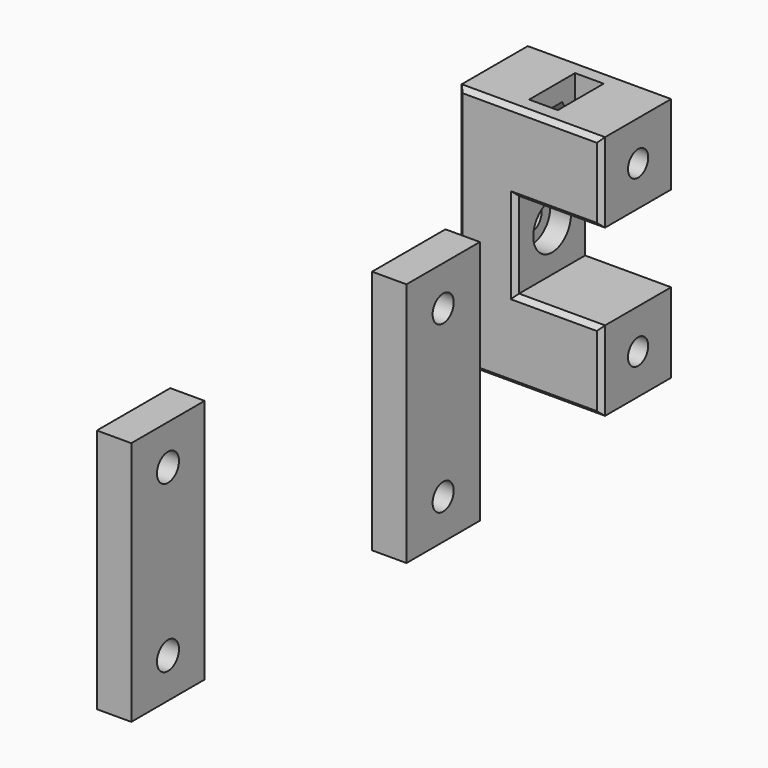
from build123d import *

# Parameters (mm, degrees)
F2_DEPTH  = 4
F4_START  = -3.7
F4_DEPTH  = 1.7
F5_W      = 2.5
F5_H      = 5
F6_DEPTH  = 5.45
F7_R      = 1.1
F8_DEPTH  = 12.501
F9_START  = -15.95
F9_DEPTH  = 5.45
F10_START = -7.1
F10_DEPTH = 1.7
F11_R     = 1.1
F13_DEPTH = 5
F12_R     = 2.05
F14_DEPTH = 1.8
F16_W     = 8
F16_H     = 21.4
F16_R     = 1.15
F17_DEPTH = 3
F20_R     = 1.2
F21_DEPTH = 15.501
F22_SIZE  = 0.4


with BuildPart() as f2:
    # F1 (on Front) → F2 (new body, symmetric)
    with BuildSketch(Plane.XZ):
        Polygon((-7.5, 3.75), (0, 3.75), (0, 10.7), (-12.5, 10.7), (-12.5, -10.7), (0, -10.7), (0, -3.75), (-7.5, -3.75), align=None)
    extrude(amount=F2_DEPTH, both=True)

    # F3 (on face) → F4 (cut)
    with BuildSketch(Plane.YZ.offset(F4_START)):
        Polygon((-1.0969655115, 5.25), (0, 5.25), (1.0969655115, 5.25), (2.1939310229, 7.15), (1.0969655115, 9.05), (0, 9.05), (-1.0969655115, 9.05), (-2.1939310229, 7.15), align=None)
        Polygon((-2.1939310229, -7.15), (-1.0969655115, -9.05), (0, -9.05), (1.0969655115, -9.05), (2.1939310229, -7.15), (1.0969655115, -5.25), (0, -5.25), (-1.0969655115, -5.25), align=None)
    extrude(amount=-F4_DEPTH, mode=Mode.SUBTRACT)

    # F5 (on face) → F6 (cut, through all)
    with BuildSketch(Plane.XY.offset(10.7)):
        with Locations((-6.25, 0)):
            Rectangle(F5_W, F5_H)
    extrude(amount=-F6_DEPTH, mode=Mode.SUBTRACT)

    # F7 (on face) → F8 (cut, through all)
    with BuildSketch(Plane.YZ):
        with Locations((0, 7.225)):
            Circle(F7_R)
        with Locations((0, -7.225)):
            Circle(F7_R)
    extrude(amount=-F8_DEPTH, mode=Mode.SUBTRACT)

    # F5 (on face) → F9 (cut)
    with BuildSketch(Plane.XY.offset(10.7).offset(F9_START)):
        with Locations((-6.25, 0)):
            Rectangle(F5_W, F5_H)
    extrude(amount=-F9_DEPTH, mode=Mode.SUBTRACT)

    # F3 (on face) → F10 (cut)
    with BuildSketch(Plane.YZ.offset(F10_START)):
        Polygon((-1.0969655115, 5.25), (0, 5.25), (1.0969655115, 5.25), (2.1939310229, 7.15), (1.0969655115, 9.05), (0, 9.05), (-1.0969655115, 9.05), (-2.1939310229, 7.15), align=None)
        Polygon((-2.1939310229, -7.15), (-1.0969655115, -9.05), (0, -9.05), (1.0969655115, -9.05), (2.1939310229, -7.15), (1.0969655115, -5.25), (0, -5.25), (-1.0969655115, -5.25), align=None)
    extrude(amount=-F10_DEPTH, mode=Mode.SUBTRACT)

    # F11 (on face) → F13 (cut, through all)
    with BuildSketch(Plane.YZ.offset(-7.5)):
        Circle(F11_R)
    extrude(amount=-F13_DEPTH, mode=Mode.SUBTRACT)

    # F12 (on face) → F14 (cut)
    with BuildSketch(Plane.YZ.offset(-7.5)):
        Circle(F12_R)
    extrude(amount=-F14_DEPTH, mode=Mode.SUBTRACT)

    # F22
    f22_edges = [f2.edges().sort_by_distance(p)[0] for p in [
        (-7.5, -4, 0),
        (-3.75, -4, 3.75),
        (-3.75, -4, -3.75),
        (-3.75, 4, 3.75),
        (-7.5, 4, 0),
        (-3.75, 4, -3.75),
        (0, -4, 7.225),
        (0, 4, 7.225),
        (-6.25, 4, 10.7),
        (-6.25, -4, 10.7),
        (-12.5, -4, 0),
        (-12.5, 4, 0),
        (-6.25, 4, -10.7),
        (0, 4, -7.225),
        (0, -4, -7.225),
        (-6.25, -4, -10.7),
    ]]
    chamfer(f22_edges, length=F22_SIZE)


with BuildPart() as f17:
    # F16 (on Right) → F17 (new body)
    with BuildSketch(Plane.YZ):
        with Locations((-25, 0)):
            Rectangle(F16_W, F16_H)
        with Locations((-25, -7.225)):
            Circle(F16_R, mode=Mode.SUBTRACT)
        with Locations((-25, 7.225)):
            Circle(F16_R, mode=Mode.SUBTRACT)
    extrude(amount=F17_DEPTH)


with BuildPart() as f19_1:
    # F19: copy of F17
    add(f17.part.moved(Location((0, -30, 0))))

    # F20 (on face) → F21 (cut, through all)
    with BuildSketch(Plane.YZ.offset(3)):
        with Locations((-55, 7.225)):
            Circle(F20_R)
        with Locations((-55, -7.225)):
            Circle(F20_R)
    extrude(amount=-F21_DEPTH, mode=Mode.SUBTRACT)


solid = Compound([f2.part, f17.part, f19_1.part])
